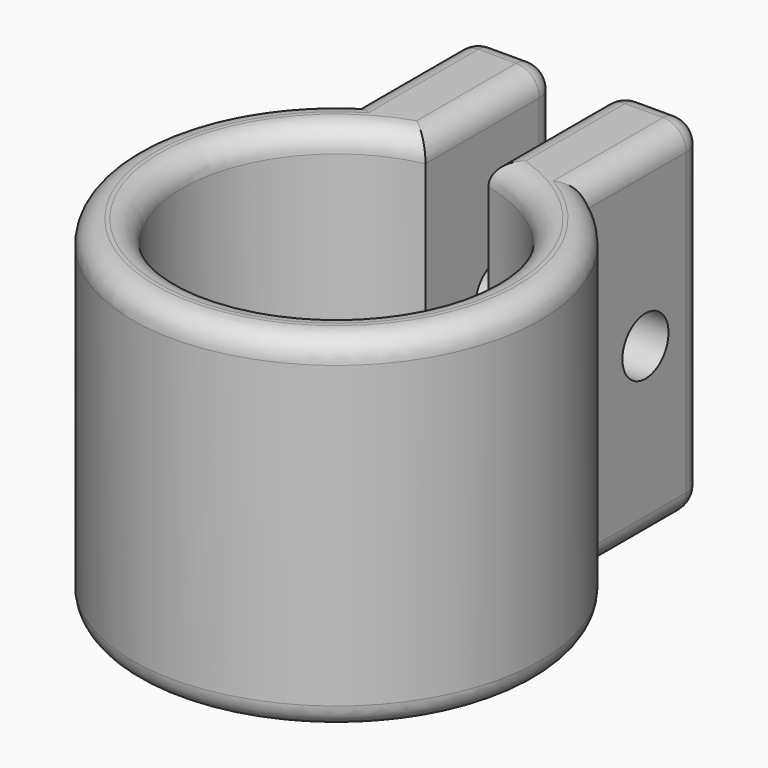
from build123d import *

# Parameters (mm, degrees)
F1_DEPTH = 30
F2_R     = 2.5
F3_DEPTH = 27.699377
F5_DEPTH = 3
F6_R     = 2


with BuildPart() as f1:
    # F0 (on Top) → F1 (new body)
    with BuildSketch(Plane.XY):
        with BuildLine():
            ThreePointArc((2.72548, 13.068828), (0, -13.35), (-2.72548, 13.068828))
            Line((-2.72548, 13.068828), (-2.72548, 17.478191))
            ThreePointArc((-2.72548, 17.478191), (-6.52943, 16.440254), (-10.008962, 14.585476))
            ThreePointArc((-10.008962, 14.585476), (0, -17.689415), (10.008962, 14.585476))
            ThreePointArc((10.008962, 14.585476), (6.52943, 16.440254), (2.72548, 17.478191))
            Line((2.72548, 17.478191), (2.72548, 13.068828))
        make_face()
        with BuildLine():
            ThreePointArc((-10.008962, 14.585476), (-6.52943, 16.440254), (-2.72548, 17.478191))
            Line((-2.72548, 17.478191), (-2.72548, 27.397981))
            Line((-2.72548, 27.397981), (-10.008962, 27.397981))
            Line((-10.008962, 27.397981), (-10.008962, 14.585476))
        make_face()
        with BuildLine():
            Line((2.72548, 27.397981), (2.72548, 17.478191))
            ThreePointArc((2.72548, 17.478191), (6.52943, 16.440254), (10.008962, 14.585476))
            Line((10.008962, 14.585476), (10.008962, 27.397981))
            Line((10.008962, 27.397981), (2.72548, 27.397981))
        make_face()
    extrude(amount=F1_DEPTH)

    # F2 (on face) → F3 (cut, through all)
    with BuildSketch(Plane(origin=(-10.008962, 0, 0), x_dir=(0, -1, 0), z_dir=(-1, 0, 0))):
        with Locations((-20.991728, 15)):
            Circle(F2_R)
    extrude(amount=-F3_DEPTH, mode=Mode.SUBTRACT)

    # F4 (on face) → F5 (cut)
    with BuildSketch(Plane(origin=(-10.008962, 0, 0), x_dir=(0, -1, 0), z_dir=(-1, 0, 0))):
        Polygon((-24.991728, 17.309401), (-24.991728, 12.690599), (-20.991728, 10.381198), (-16.991728, 12.690599), (-16.991728, 17.309401), (-20.991728, 19.618802), align=None)
    extrude(amount=-F5_DEPTH, mode=Mode.SUBTRACT)

    # F6
    f6_edges = [f1.edges().sort_by_distance(p)[0] for p in [
        (0, -13.35, 30),
        (-2.72548, 20.233404, 30),
        (-6.367221, 27.397981, 30),
        (-10.008962, 20.991728, 30),
        (0, -17.689415, 30),
        (10.008962, 20.991728, 30),
        (6.367221, 27.397981, 30),
        (2.72548, 20.233404, 30),
        (0, -13.35, 0),
        (-2.72548, 20.233404, 0),
        (-6.367221, 27.397981, 0),
        (-10.008962, 20.991728, 0),
        (0, -17.689415, 0),
        (10.008962, 20.991728, 0),
        (6.367221, 27.397981, 0),
        (2.72548, 20.233404, 0),
        (10.008962, 27.397981, 15),
        (2.72548, 27.397981, 15),
        (-2.72548, 27.397981, 15),
        (-10.008962, 27.397981, 15),
    ]]
    fillet(f6_edges, radius=F6_R)


solid = f1.part
